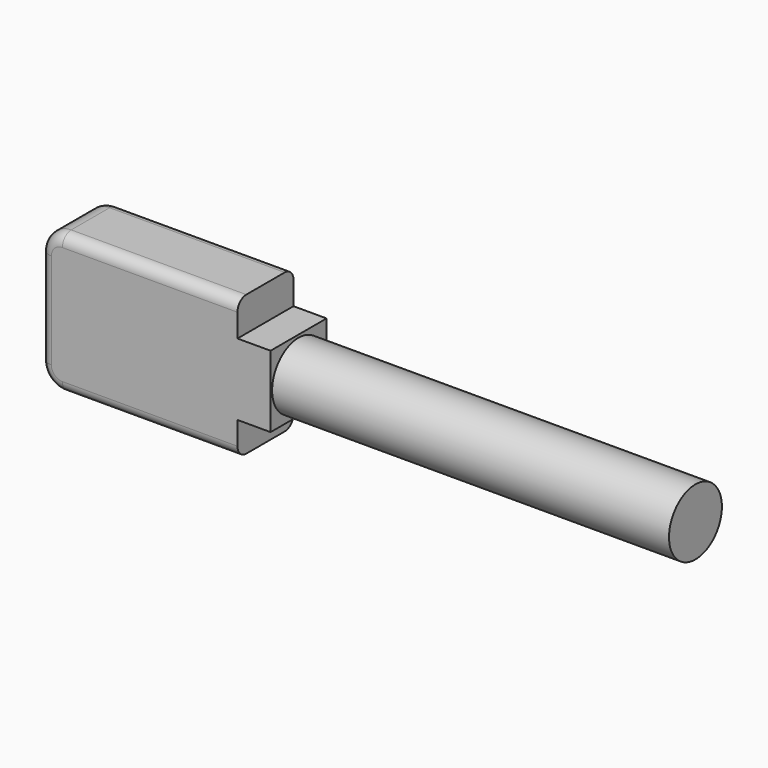
from build123d import *

# Parameters (mm, degrees)
PAD002_DEPTH = 3.175
FILLET001_R  = 2
FILLET002_R  = 1
SKETCH010_R  = 3
PAD003_DEPTH = 36


with BuildPart() as part:
    # Sketch009 → Pad002 (new body, symmetric)
    with BuildSketch(Plane.XZ):
        Polygon((0, 3.25), (-3, 3.25), (-3, 6.35), (-20.8816, 6.35), (-20.8816, 0), (0, 0), align=None)
    pad002 = extrude(amount=PAD002_DEPTH, both=True)

    # Mirrored: Pad002 across Sketch009 H_Axis
    add(pad002.mirror(Plane(origin=(0, 0, 0), x_dir=(0, -1, 0), z_dir=(0, 0, 1))))

    # Fillet001
    fillet001_edges = [part.edges().sort_by_distance(p)[0] for p in [
        (-20.8816, 0, -6.35),
        (-20.8816, 0, 6.35),
    ]]
    fillet(fillet001_edges, radius=FILLET001_R)

    # Fillet002
    fillet002_edges = [part.edges().sort_by_distance(p)[0] for p in [
        (-10.9408, 3.175, 6.35),
        (-10.9408, -3.175, 6.35),
    ]]
    fillet(fillet002_edges, radius=FILLET002_R)

    # Sketch010 → Pad003 (join)
    with BuildSketch(Plane.YZ):
        Circle(SKETCH010_R)
    extrude(amount=PAD003_DEPTH)


solid = part.part
